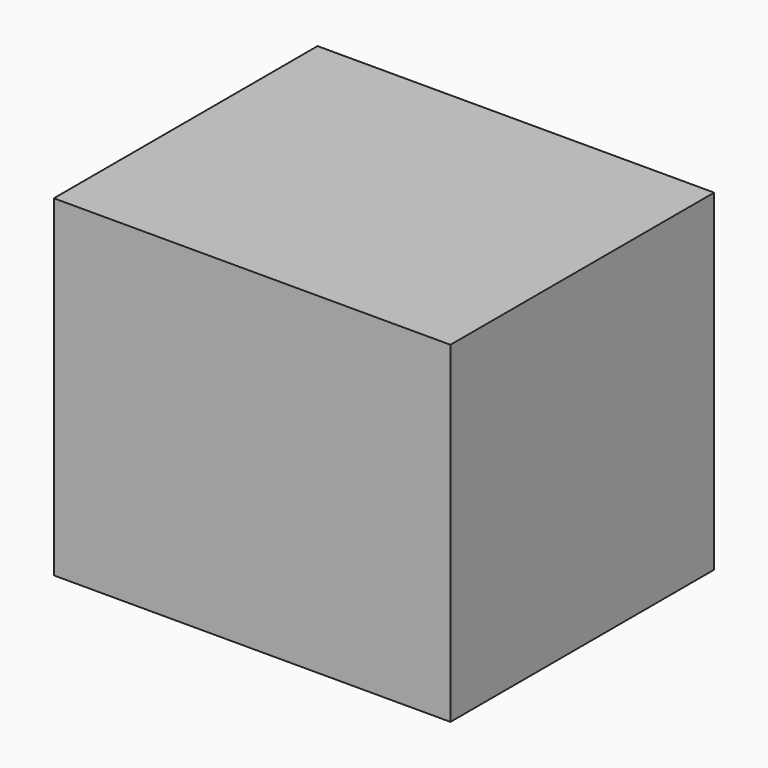
from build123d import *

# Parameters (mm, degrees)
F2_DEPTH = 25
F3_DEPTH = 25
F4_DEPTH = 50


with BuildPart() as f2:
    # F1 (on face) → F2 (new body)
    with BuildSketch(Plane.XZ):
        Polygon((-60.1675212383, -50.3685362637), (60.1675212383, -50.3685362637), (60.1675212383, 50.3685362637), (-60.1675212383, 50.3685362637), (-60.1675212383, 50.0784505724), align=None)
    extrude(amount=F2_DEPTH)

    # F3 (add): a face of the model
    f3_faces = [f2.faces().sort_by_distance(p)[0] for p in [
        (0, -25, 0),
    ]]
    extrude(f3_faces, amount=F3_DEPTH)

    # F4 (add): a face of the model
    f4_faces = [f2.faces().sort_by_distance(p)[0] for p in [
        (0, -50, 0),
    ]]
    extrude(f4_faces, amount=F4_DEPTH)


solid = f2.part
